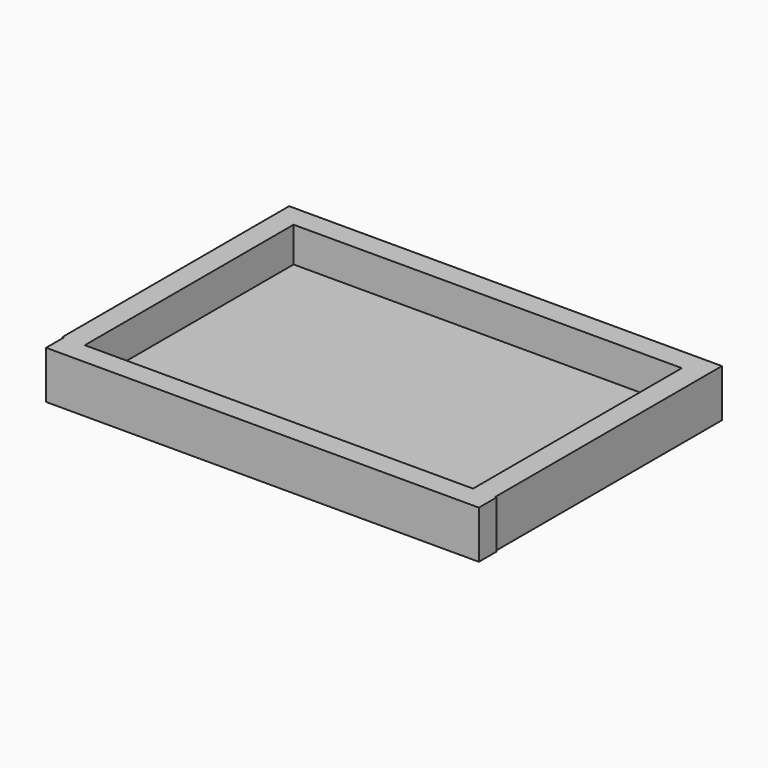
from build123d import *

# Parameters (mm, degrees)
F0_W     = 44.45
F0_H     = 520.7
F1_DEPTH = 95.25
F0_W_2   = 774.7
F2_DEPTH = 25.4


with BuildPart() as f1:
    # F0 (on Top) → F1 (new body)
    with BuildSketch(Plane.XY):
        with Locations((408.446951, 2.281439)):
            Rectangle(F0_W, F0_H)
        Polygon((433.374935, -258.068561), (430.671951, -258.068561), (386.221951, -258.068561), (-388.478049, -258.068561), (-430.225065, -258.068561), (-430.225065, -302.518561), (433.374935, -302.518561), align=None)
        Polygon((-388.478049, 262.631439), (-432.928049, 262.631439), (-432.928049, -258.068561), (-430.225065, -258.068561), (-388.478049, -258.068561), align=None)
        Polygon((430.671951, 307.081439), (-432.928049, 307.081439), (-432.928049, 262.631439), (-388.478049, 262.631439), (386.221951, 262.631439), (430.671951, 262.631439), align=None)
    extrude(amount=F1_DEPTH)

    # F0 (on Top) → F2 (join)
    with BuildSketch(Plane.XY):
        with Locations((-1.128049, 2.281439)):
            Rectangle(F0_W_2, F0_H)
    extrude(amount=F2_DEPTH)


solid = f1.part
